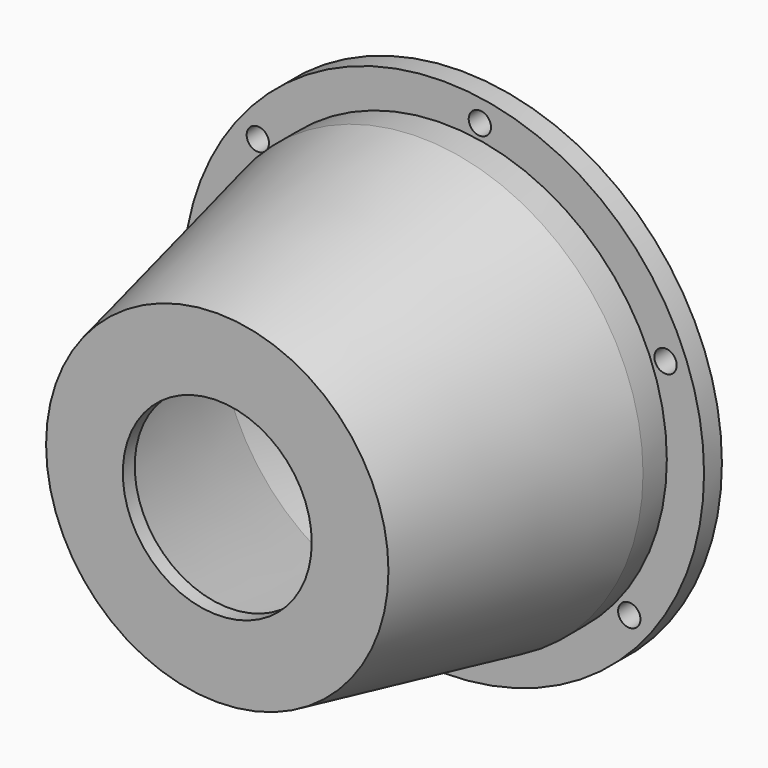
from build123d import *

# Parameters (mm, degrees)
F0_R      = 30
F0_R_2    = 27
F1_DEPTH  = 4
F4_R      = 30
F3_R      = 23
F7_R      = 20
F6_R      = 27
F9_R      = 22.403667
F9_R_2    = 12.693191
F10_DEPTH = 2
F11_R     = 35
F11_R_2   = 27
F12_DEPTH = 3
F13_R     = 1.5
F14_DEPTH = 25


with BuildPart() as f1:
    # F0 (on Front) → F1 (new body)
    with BuildSketch(Plane.XZ):
        Circle(F0_R)
        Circle(F0_R_2, mode=Mode.SUBTRACT)
    extrude(amount=F1_DEPTH)

    # F4 (on face) → F5 section 0
    with BuildSketch(Plane.XZ.offset(4)):
        Circle(F4_R)
    # F3 (on offset) → F5 section 1
    with BuildSketch(Plane.XZ.offset(38)):
        Circle(F3_R)
    loft()

    # F7 (on face) → F8 section 0
    with BuildSketch(Plane.XZ.offset(38)):
        Circle(F7_R)
    # F6 (on face) → F8 section 1
    with BuildSketch(Plane(origin=(0, -4, 0), x_dir=(-1, 0, 0), z_dir=(0, 1, 0))):
        Circle(F6_R)
    loft(mode=Mode.SUBTRACT)

    # F9 (on face) → F10 (join)
    with BuildSketch(Plane.XZ.offset(38)):
        Circle(F9_R)
        Circle(F9_R_2, mode=Mode.SUBTRACT)
    extrude(amount=-F10_DEPTH)

    # F11 (on face) → F12 (join)
    with BuildSketch(Plane(origin=(0, 0, 0), x_dir=(-1, 0, 0), z_dir=(0, 1, 0))):
        Circle(F11_R)
        Circle(F11_R_2, mode=Mode.SUBTRACT)
    extrude(amount=F12_DEPTH)

    # F13 (on face) → F14 (cut)
    with BuildSketch(Plane(origin=(0, 3, 0), x_dir=(-1, 0, 0), z_dir=(0, 1, 0))):
        with Locations((-4.877913, 31.626033)):
            Circle(F13_R)
        with Locations((24.949992, 20.037413)):
            Circle(F13_R)
        with Locations((29.827904, -11.58862)):
            Circle(F13_R)
        with Locations((4.877913, -31.626033)):
            Circle(F13_R)
        with Locations((-24.949992, -20.037413)):
            Circle(F13_R)
        with Locations((-29.827904, 11.58862)):
            Circle(F13_R)
    extrude(amount=-F14_DEPTH, mode=Mode.SUBTRACT)


solid = f1.part
